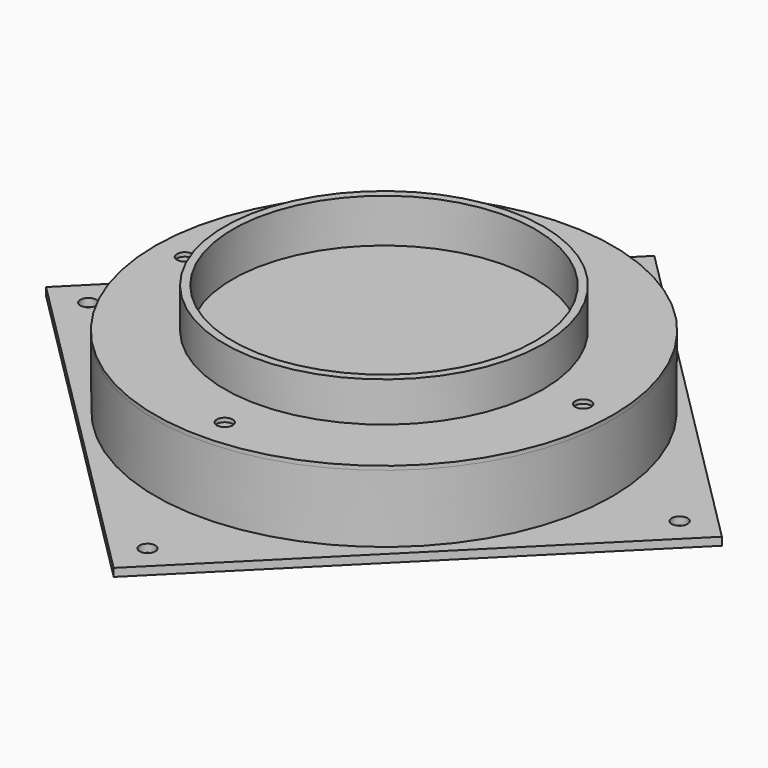
from build123d import *

# Parameters (mm, degrees)
F0_R     = 40
F0_R_2   = 38
F1_DEPTH = 10
F2_R     = 57.5
F2_R_2   = 2
F2_R_3   = 38
F3_DEPTH = 1
F5_R     = 2
F5_R_2   = 55
F6_DEPTH = 2
F7_R     = 57.386985
F8_R     = 57.5


with BuildPart() as f1:
    # F0 (on Top) → F1 (new body)
    with BuildSketch(Plane.XY):
        Circle(F0_R)
        Circle(F0_R_2, mode=Mode.SUBTRACT)
    extrude(amount=F1_DEPTH)

    # F2 (on face) → F3 (join)
    with BuildSketch(Plane(origin=(0, 0, 0), x_dir=(1, 0, 0), z_dir=(0, 0, -1))):
        Circle(F2_R)
        with Locations((0, -50)):
            Circle(F2_R_2, mode=Mode.SUBTRACT)
        with Locations((-50, 0)):
            Circle(F2_R_2, mode=Mode.SUBTRACT)
        Circle(F2_R_3, mode=Mode.SUBTRACT)
        with Locations((50, 0)):
            Circle(F2_R_2, mode=Mode.SUBTRACT)
        with Locations((0, 50)):
            Circle(F2_R_2, mode=Mode.SUBTRACT)
    extrude(amount=F3_DEPTH)


with BuildPart() as f6:
    # F5 (on offset) → F6 (new body)
    with BuildSketch(Plane.XY.offset(-20)):
        Polygon((0, 84.852814), (-84.852814, 0), (0, -84.852814), (84.852814, 0), align=None)
        with Locations((-74.235, 0)):
            Circle(F5_R, mode=Mode.SUBTRACT)
        with Locations((0, -74.235)):
            Circle(F5_R, mode=Mode.SUBTRACT)
        Circle(F5_R_2, mode=Mode.SUBTRACT)
        with Locations((74.235, 0)):
            Circle(F5_R, mode=Mode.SUBTRACT)
        with Locations((0, 74.235)):
            Circle(F5_R, mode=Mode.SUBTRACT)
    extrude(amount=F6_DEPTH)


with BuildPart() as f9:
    # F7 (on face) → F9 section 0
    with BuildSketch(Plane.XY.offset(-18)):
        Circle(F7_R)
    # F8 (on face) → F9 section 1
    with BuildSketch(Plane(origin=(0, 0, -1), x_dir=(1, 0, 0), z_dir=(0, 0, -1))):
        Circle(F8_R)
    loft()


solid = Compound([f1.part, f6.part, f9.part])
